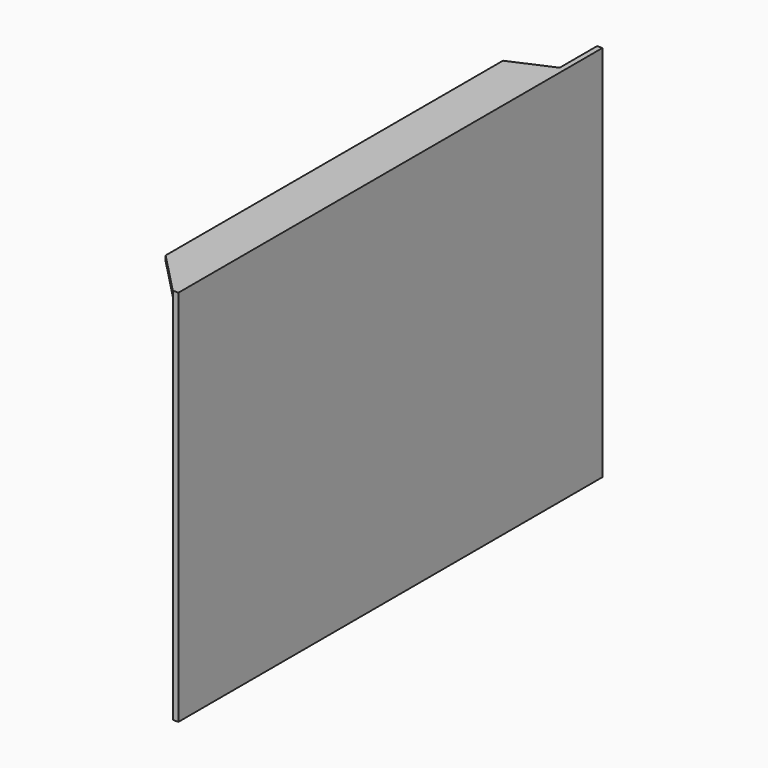
from build123d import *

# Parameters (mm, degrees)
F0_W     = 1.5875
F0_H     = 160.30702
F1_DEPTH = 114.3
F2_W     = 146.1514011281
F2_H     = 1.5875
F3_DEPTH = 12.7
F5_DEPTH = 25.4


with BuildPart() as f1:
    # F0 (on Top) → F1 (new body)
    with BuildSketch(Plane.XY):
        Rectangle(F0_W, F0_H)
    extrude(amount=F1_DEPTH)

    # F2 (on face) → F3 (join)
    with BuildSketch(Plane(origin=(-0.79375, 0, 0), x_dir=(0, -1, 0), z_dir=(-1, 0, 0))):
        with Locations((7.077809436, 113.50625)):
            Rectangle(F2_W, F2_H)
    extrude(amount=F3_DEPTH)

    # F4 (on face) → F5 (cut)
    with BuildSketch(Plane.XY.offset(114.3)):
        Polygon((-13.49375, -80.15351), (-0.9107529768, -80.15351), (-13.49375, -67.1152621508), align=None)
        Polygon((-13.49375, 60.424938798), (-0.79375, 65.9978911281), (-13.49375, 65.9978911281), align=None)
    extrude(amount=-F5_DEPTH, mode=Mode.SUBTRACT)


solid = f1.part
